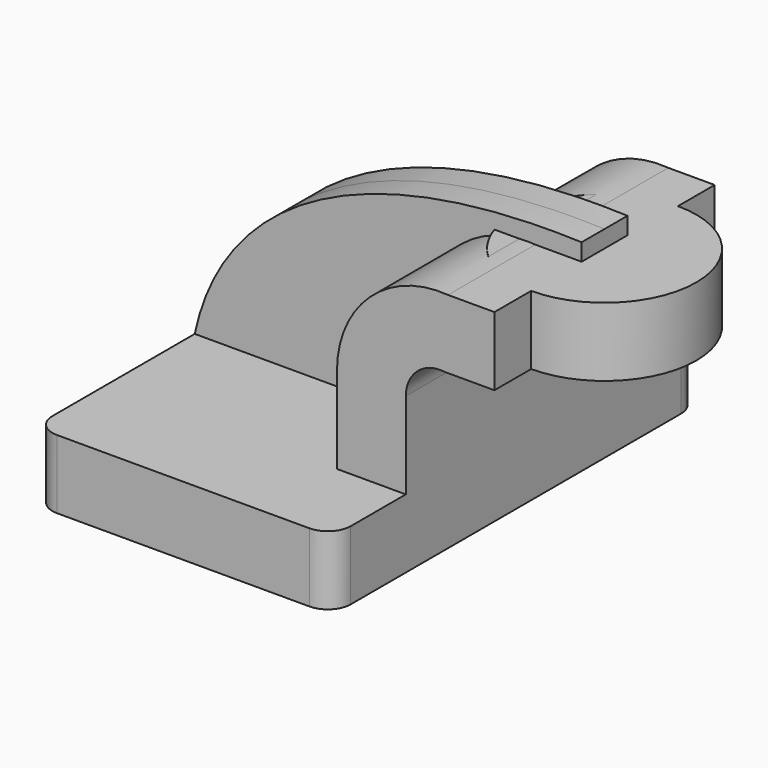
from build123d import *

# Parameters (mm, degrees)
F1_DEPTH = 63.5
F2_DEPTH = 38.1
F3_DEPTH = 7.9375
F0_W     = 25.4
F0_H     = 19.05
F5_R     = 6.35


with BuildPart() as f1:
    # F0 (on Front) → F1 (new body, symmetric)
    with BuildSketch(Plane.XZ):
        Polygon((-41.275, -9.525), (41.275, -9.525), (41.275, 9.525), (22.225, 9.525), (-41.275, 9.525), align=None)
    extrude(amount=F1_DEPTH, both=True)

    # F0 (on Front) → F2 (join, symmetric)
    with BuildSketch(Plane.XZ):
        with BuildLine():
            Line((22.225, 9.525), (41.275, 9.525))
            Line((41.275, 9.525), (41.275, 33.4762879004))
            ThreePointArc((41.275, 33.4762879004), (44.5168460124, 40.6164151559), (52.0260985597, 42.8752))
            Line((52.0260985597, 42.8752), (65.8047579605, 42.8752))
            Line((65.8047579605, 42.8752), (65.8047579605, 61.9252))
            Line((65.8047579605, 61.9252), (52.9601850462, 61.9252))
            ThreePointArc((52.9601850462, 61.9252), (31.3762728586, 54.4166329279), (22.225, 33.4762879004))
            Line((22.225, 33.4762879004), (22.225, 9.525))
        make_face()
    extrude(amount=F2_DEPTH, both=True)

    # F0 (on Front) → F3 (join, symmetric)
    with BuildSketch(Plane.XZ):
        with BuildLine():
            add(Edge.make_bspline(
                [(-41.275, 9.525), (-33.4530882537, 46.4520864189), (4.1069700383, 68.8830763102), (65.8047579605, 66.675)],
                knots=[0, 0, 0, 0, 121.3762623616, 121.3762623616, 121.3762623616, 121.3762623616], degree=3))
            Line((-41.275, 9.525), (22.225, 9.525))
            Line((22.225, 9.525), (22.225, 33.4762879004))
            ThreePointArc((22.225, 33.4762879004), (31.3762728586, 54.4166329279), (52.9601850462, 61.9252))
            Line((52.9601850462, 61.9252), (65.8047579605, 61.9252))
            Line((65.8047579605, 61.9252), (65.8047579605, 66.675))
        make_face()
    extrude(amount=F3_DEPTH, both=True)

    # F0 (on Front) → F4 (revolve)
    with BuildSketch(Plane.XZ):
        with Locations((78.5047579605, 52.4002)):
            Rectangle(F0_W, F0_H)
    revolve(axis=Axis((65.8047579605, 0, 52.3875), (0, 0, 1)))

    # F5
    f5_edges = [f1.edges().sort_by_distance(p)[0] for p in [
        (41.275, -63.5, 0),
        (41.275, 63.5, 0),
        (-41.275, 63.5, 0),
        (-41.275, -63.5, 0),
    ]]
    fillet(f5_edges, radius=F5_R)


solid = f1.part
